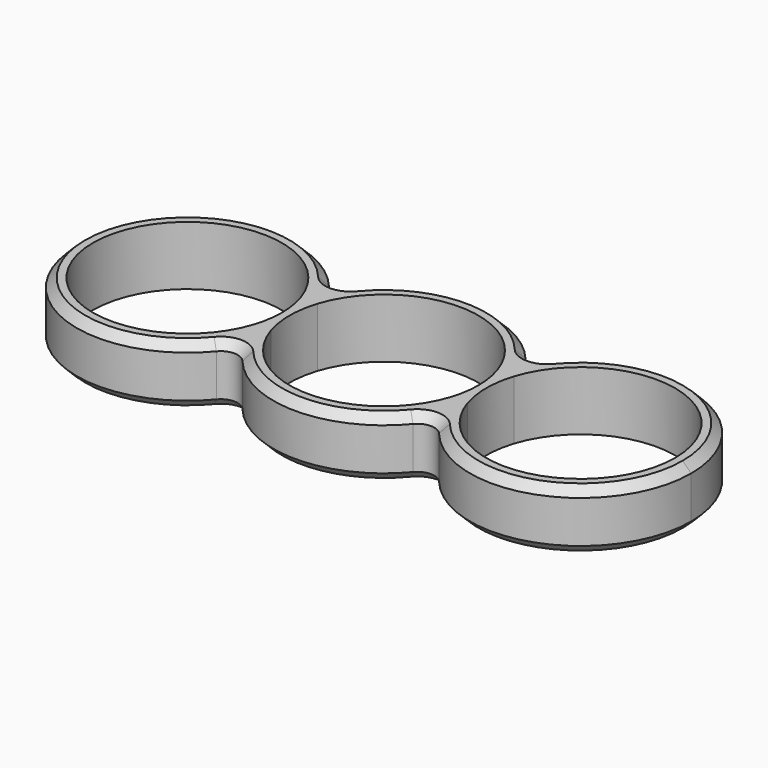
from build123d import *

# Parameters (mm, degrees)
F1_DEPTH = 7
F2_R     = 2
F3_SIZE  = 1


with BuildPart() as f1:
    # F0 (on Top) → F1 (new body)
    with BuildSketch(Plane.XY):
        with BuildLine():
            ThreePointArc((-12.6158602151, 3.4344862839), (-12.1873110001, 4.7355121779), (-11.625, 5.9845634761))
            ThreePointArc((-11.625, 5.9845634761), (-36.325, 0), (-11.625, -5.9845634761))
            ThreePointArc((-11.625, -5.9845634761), (-12.1873110001, -4.7355121779), (-12.6158602151, -3.4344862839))
            ThreePointArc((-12.6158602151, -3.4344862839), (-34.425, 0), (-12.6158602151, 3.4344862839))
        make_face()
        with BuildLine():
            ThreePointArc((-10.6341397849, 3.4344862839), (0, 11.175), (10.6341397849, 3.4344862839))
            ThreePointArc((10.6341397849, 3.4344862839), (11.0626889999, 4.7355121779), (11.625, 5.9845634761))
            ThreePointArc((11.625, 5.9845634761), (0, 13.075), (-11.625, 5.9845634761))
            ThreePointArc((-11.625, 5.9845634761), (-11.0626889999, 4.7355121779), (-10.6341397849, 3.4344862839))
        make_face()
        with BuildLine():
            ThreePointArc((36.325, 0), (26.3288593667, 12.7073305615), (11.625, 5.9845634761))
            ThreePointArc((11.625, 5.9845634761), (12.1873110001, 4.7355121779), (12.6158602151, 3.4344862839))
            ThreePointArc((12.6158602151, 3.4344862839), (24.9884062965, 11.0389568596), (34.425, 0))
            ThreePointArc((34.425, 0), (24.9884062965, -11.0389568596), (12.6158602151, -3.4344862839))
            ThreePointArc((12.6158602151, -3.4344862839), (12.1873110001, -4.7355121779), (11.625, -5.9845634761))
            ThreePointArc((11.625, -5.9845634761), (26.3288593667, -12.7073305615), (36.325, 0))
        make_face()
        with BuildLine():
            ThreePointArc((11.625, -5.9845634761), (11.0626889999, -4.7355121779), (10.6341397849, -3.4344862839))
            ThreePointArc((10.6341397849, -3.4344862839), (0, -11.175), (-10.6341397849, -3.4344862839))
            ThreePointArc((-10.6341397849, -3.4344862839), (-11.0626889999, -4.7355121779), (-11.625, -5.9845634761))
            ThreePointArc((-11.625, -5.9845634761), (0, -13.075), (11.625, -5.9845634761))
        make_face()
        with BuildLine():
            ThreePointArc((10.6341397849, 3.4344862839), (11.0389568596, 1.7384062965), (11.175, 0))
            ThreePointArc((11.175, 0), (11.0389568596, -1.7384062965), (10.6341397849, -3.4344862839))
            ThreePointArc((10.6341397849, -3.4344862839), (11.0626889999, -4.7355121779), (11.625, -5.9845634761))
            ThreePointArc((11.625, -5.9845634761), (12.1873110001, -4.7355121779), (12.6158602151, -3.4344862839))
            ThreePointArc((12.6158602151, -3.4344862839), (12.075, 0), (12.6158602151, 3.4344862839))
            ThreePointArc((12.6158602151, 3.4344862839), (12.1873110001, 4.7355121779), (11.625, 5.9845634761))
            ThreePointArc((11.625, 5.9845634761), (11.0626889999, 4.7355121779), (10.6341397849, 3.4344862839))
        make_face()
        with BuildLine():
            ThreePointArc((-10.6341397849, -3.4344862839), (-11.175, 0), (-10.6341397849, 3.4344862839))
            ThreePointArc((-10.6341397849, 3.4344862839), (-11.0626889999, 4.7355121779), (-11.625, 5.9845634761))
            ThreePointArc((-11.625, 5.9845634761), (-12.1873110001, 4.7355121779), (-12.6158602151, 3.4344862839))
            ThreePointArc((-12.6158602151, 3.4344862839), (-12.2110431404, 1.7384062965), (-12.075, 0))
            ThreePointArc((-12.075, 0), (-12.2110431404, -1.7384062965), (-12.6158602151, -3.4344862839))
            ThreePointArc((-12.6158602151, -3.4344862839), (-12.1873110001, -4.7355121779), (-11.625, -5.9845634761))
            ThreePointArc((-11.625, -5.9845634761), (-11.0626889999, -4.7355121779), (-10.6341397849, -3.4344862839))
        make_face()
    extrude(amount=F1_DEPTH)

    # F2
    f2_edges = [f1.edges().sort_by_distance(p)[0] for p in [
        (-11.625, -5.984563, 3.5),
        (11.625, -5.984563, 3.5),
        (-11.625, 5.984563, 3.5),
        (11.625, 5.984563, 3.5),
    ]]
    fillet(f2_edges, radius=F2_R)

    # F3
    f3_edges = [f1.edges().sort_by_distance(p)[0] for p in [
        (0, -13.075, 7),
        (-36.325, 0, 0),
    ]]
    chamfer(f3_edges, length=F3_SIZE)


solid = f1.part
